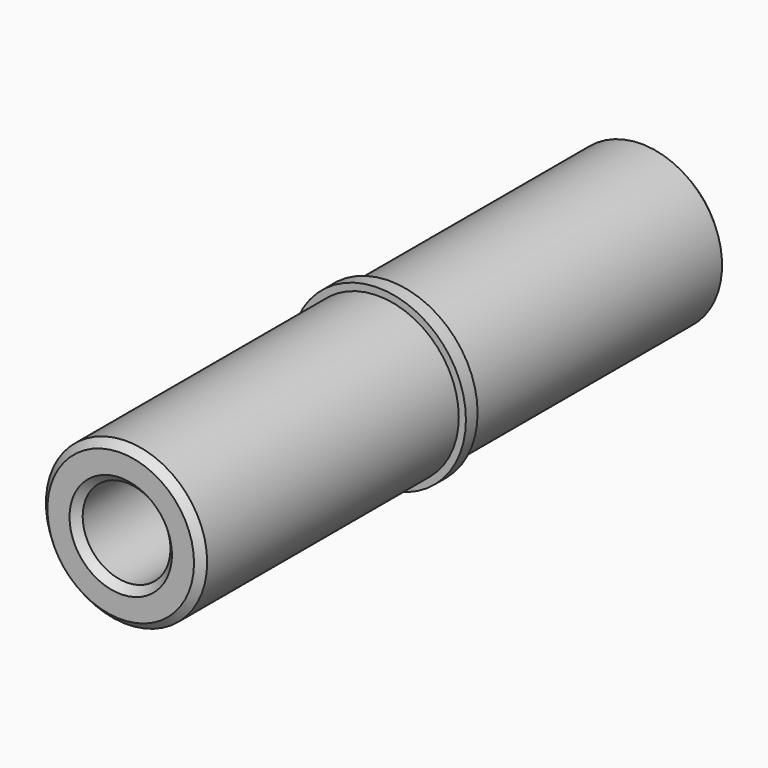
from build123d import *

# Parameters (mm, degrees)
F0_R     = 19.05
F1_DEPTH = 3.175
F2_R     = 17.5006
F3_DEPTH = 69.85
F4_R     = 17.5006
F5_DEPTH = 69.85
F6_R     = 9.525
F7_DEPTH = 142.876
F8_SIZE  = 1.5875


with BuildPart() as f1:
    # F0 (on Front) → F1 (new body)
    with BuildSketch(Plane.XZ):
        Circle(F0_R)
    extrude(amount=F1_DEPTH)

    # F2 (on face) → F3 (join)
    with BuildSketch(Plane.XZ.offset(3.175)):
        Circle(F2_R)
    extrude(amount=F3_DEPTH)

    # F4 (on face) → F5 (join)
    with BuildSketch(Plane(origin=(0, 0, 0), x_dir=(-1, 0, 0), z_dir=(0, 1, 0))):
        Circle(F4_R)
    extrude(amount=F5_DEPTH)

    # F6 (on face) → F7 (cut, through all)
    with BuildSketch(Plane(origin=(0, 69.85, 0), x_dir=(-1, 0, 0), z_dir=(0, 1, 0))):
        Circle(F6_R)
    extrude(amount=-F7_DEPTH, mode=Mode.SUBTRACT)

    # F8
    f8_edges = [f1.edges().sort_by_distance(p)[0] for p in [
        (-17.5006, -73.025, 0),
        (9.525, -73.025, 0),
        (9.525, 69.85, 0),
        (17.5006, 69.85, 0),
    ]]
    chamfer(f8_edges, length=F8_SIZE)


solid = f1.part
